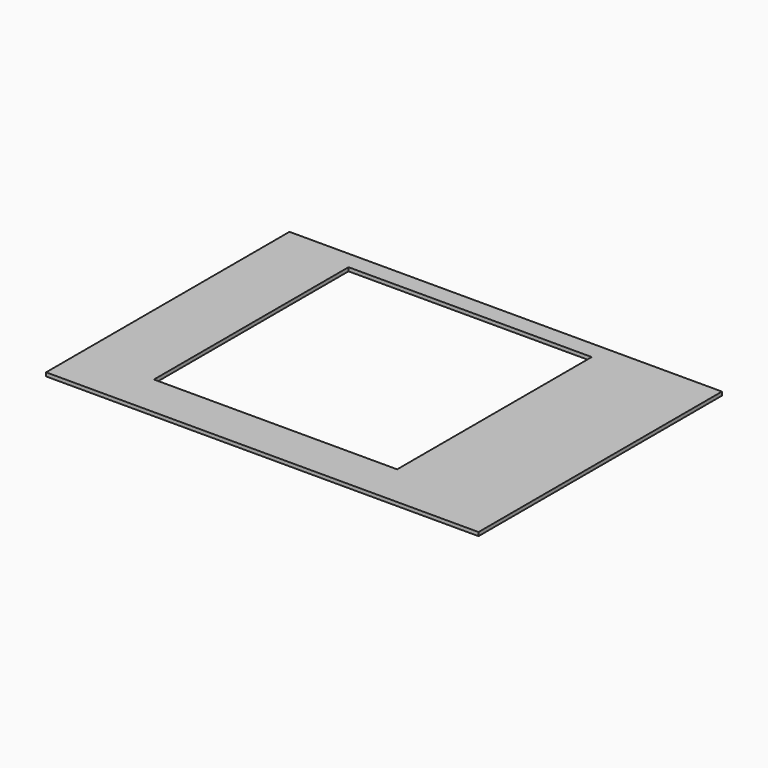
from build123d import *

# Parameters (mm, degrees)
F0_W     = 355.619341
F0_H     = 250.18812
F0_W_2   = 200
F0_H_2   = 200
F1_DEPTH = 3


with BuildPart() as f1:
    # F0 (on Top) → F1 (new body)
    with BuildSketch(Plane.XY):
        with Locations((17.476574, -10.373693)):
            Rectangle(F0_W, F0_H)
        Rectangle(F0_W_2, F0_H_2, mode=Mode.SUBTRACT)
    extrude(amount=F1_DEPTH)


solid = f1.part
